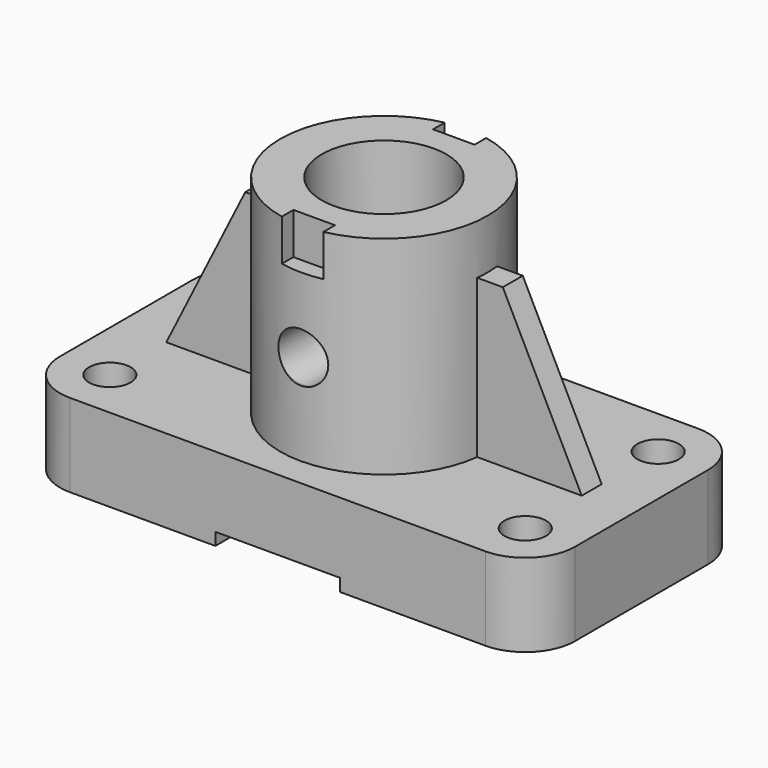
from build123d import *

# Parameters (mm, degrees)
SKETCH_R             = 2.5
PAD_DEPTH            = 10
SKETCH001_R          = 12.5
PAD001_DEPTH         = 25
SKETCH002_R          = 7.5
POCKET_DEPTH         = 10
SKETCH003_W          = 5
SKETCH003_H          = 3.523945
POCKET001_DEPTH      = 5
POLARPATTERN_COUNT   = 2
PAD002_DEPTH         = 1.5
SKETCH005_R          = 3
POCKET002_DEPTH      = 28.248449
POCKET002_DEPTH_BACK = -3.753551
SKETCH006_W          = 15
SKETCH006_H          = 3
POCKET003_DEPTH      = 32.001


with BuildPart() as part:
    # Sketch → Pad (new body)
    with BuildSketch(Plane.XY):
        with BuildLine():
            ThreePointArc((-25, 16), (-29.242641, 14.242641), (-31, 10))
            Line((-31, -10), (-31, 10))
            ThreePointArc((-31, -10), (-29.242641, -14.242641), (-25, -16))
            Line((25, -16), (-25, -16))
            ThreePointArc((25, -16), (29.242641, -14.242641), (31, -10))
            Line((31, 10), (31, -10))
            ThreePointArc((31, 10), (29.242641, 14.242641), (25, 16))
            Line((-25, 16), (25, 16))
        make_face()
        with Locations((-25, -10)):
            Circle(SKETCH_R, mode=Mode.SUBTRACT)
        with Locations((-25, 10)):
            Circle(SKETCH_R, mode=Mode.SUBTRACT)
        with Locations((25, -10)):
            Circle(SKETCH_R, mode=Mode.SUBTRACT)
        with Locations((25, 10)):
            Circle(SKETCH_R, mode=Mode.SUBTRACT)
    extrude(amount=PAD_DEPTH)

    # Sketch001 (on Face14 of Pad) → Pad001 (join)
    with BuildSketch(Plane.XY.offset(10)):
        Circle(SKETCH001_R)
    extrude(amount=PAD001_DEPTH)

    # Sketch002 (on Face16 of Pad001) → Pocket (cut)
    with BuildSketch(Plane.XY.offset(35)):
        Circle(SKETCH002_R)
    extrude(amount=-POCKET_DEPTH, mode=Mode.SUBTRACT)

    # Sketch003 (on Face16 of Pocket) → Pocket001 (cut)
    with BuildSketch(Plane.XY.offset(35)):
        with Locations((0, 12.261972)):
            Rectangle(SKETCH003_W, SKETCH003_H)
    pocket001 = extrude(amount=-POCKET001_DEPTH, mode=Mode.SUBTRACT)

    # PolarPattern: Pocket001 ×2 about axis
    polarpattern_axis = Axis((0, 0, 35), (0, 0, 1))
    for i in range(1, POLARPATTERN_COUNT):
        add(pocket001.rotate(polarpattern_axis, i * 360 / POLARPATTERN_COUNT), mode=Mode.SUBTRACT)

    # Sketch004 (on DatumPlane) → Pad002 (join, symmetric)
    with BuildSketch(Plane(origin=(12.5, 0, 35), x_dir=(1, 0, 0), z_dir=(0, -1, 0))):
        Polygon((-0.2, -6), (3, -6), (12.5, -25), (-0.2, -25), align=None)
    pad002 = extrude(amount=PAD002_DEPTH, both=True)

    # Mirrored: Pad002 across YZ
    add(pad002.mirror(Plane.YZ))

    # Sketch005 (on DatumPlane) → Pocket002 (cut, two sides)
    with BuildSketch(Plane(origin=(0, -12.247449, 30), x_dir=(1, 0, 0), z_dir=(0, -1, 0))) as pocket002_sk:
        with Locations((0, -9)):
            Circle(SKETCH005_R)
    extrude(amount=-POCKET002_DEPTH, mode=Mode.SUBTRACT)
    extrude(pocket002_sk.sketch, amount=-POCKET002_DEPTH_BACK, mode=Mode.SUBTRACT)

    # Sketch006 (on Face8 of Pocket002) → Pocket003 (cut, through all)
    with BuildSketch(Plane.XZ.offset(16)):
        Rectangle(SKETCH006_W, SKETCH006_H)
    extrude(amount=-POCKET003_DEPTH, mode=Mode.SUBTRACT)


solid = part.part
